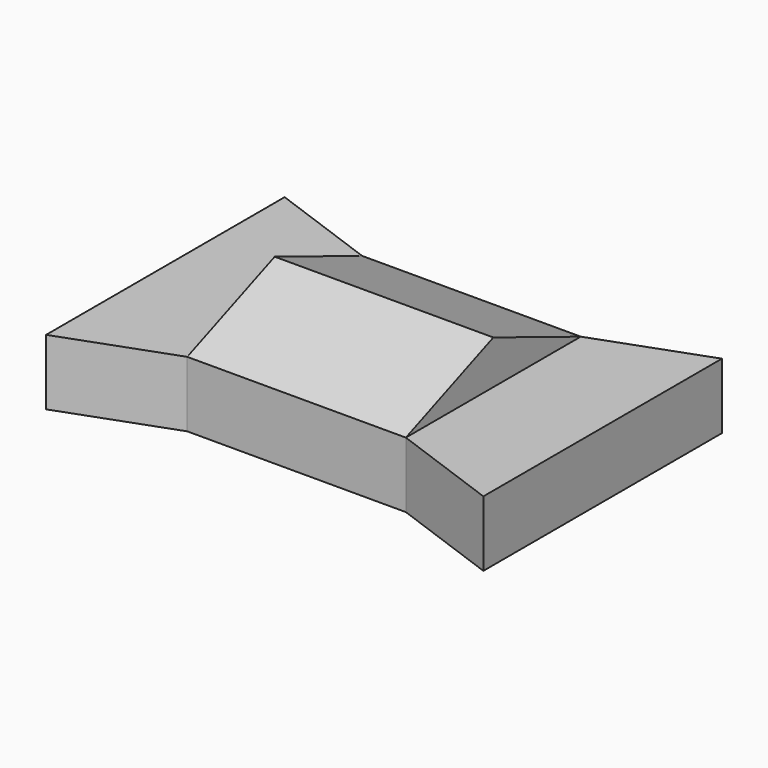
from build123d import *

# Parameters (mm, degrees)
F3_W     = 10
F3_H     = 10
F3_W_2   = 5
F4_DEPTH = 3
F5_START = 3
F5_DEPTH = 2
F7_DEPTH = 10


with BuildPart() as f4:
    # F3 (on Top) → F4 (new body)
    with BuildSketch(Plane.XY):
        Polygon((10, 6.8198511713), (5, 5), (5, -5), (10, -6.8198511713), (10, -5), (10, 5), align=None)
        Rectangle(F3_W, F3_H)
        with Locations((-7.5, 0)):
            Rectangle(F3_W_2, F3_H)
        Polygon((-10, -6.8198511713), (-5, -5), (-10, -5), align=None)
        Polygon((-10, 5), (-5, 5), (-10, 6.8198511713), align=None)
    extrude(amount=F4_DEPTH)


with BuildPart() as f5:
    # F3 (on Top) → F5 (new body)
    with BuildSketch(Plane.XY.offset(F5_START)):
        Rectangle(F3_W, F3_H)
    extrude(amount=F5_DEPTH)

    # F6 (on face) → F7 (intersect)
    with BuildSketch(Plane(origin=(-5, 0, 0), x_dir=(0, -1, 0), z_dir=(-1, 0, 0))):
        Polygon((5, 3), (0, 5), (-5, 3), align=None)
    extrude(amount=-F7_DEPTH, mode=Mode.INTERSECT)


solid = Compound([f4.part, f5.part])
